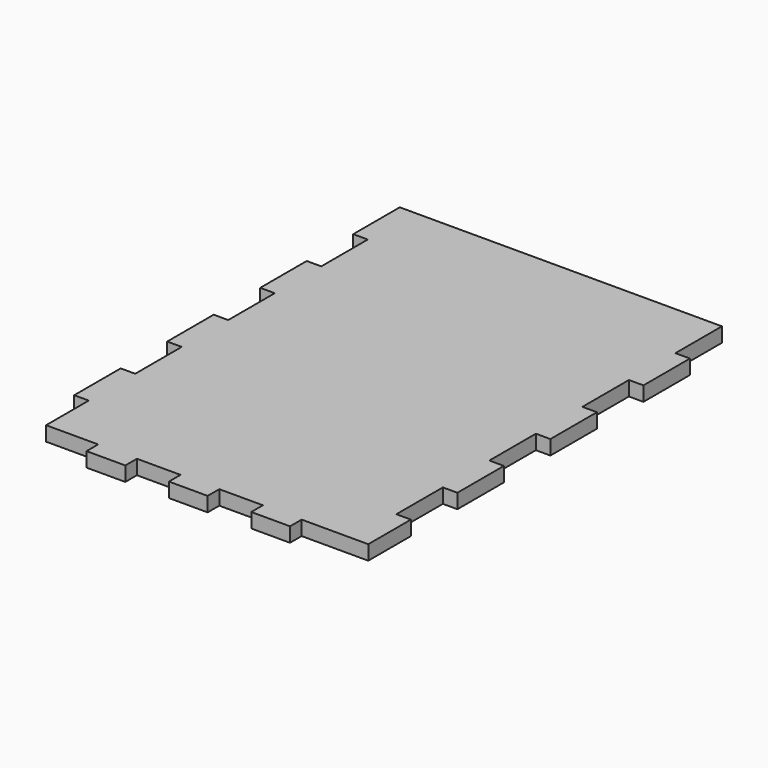
from build123d import *

# Parameters (mm, degrees)
PAD_DEPTH = 3


with BuildPart() as part:
    # Sketch → Pad (new body)
    with BuildSketch(Plane.XY):
        Polygon((34.75, -29), (21, -29), (21, -32), (13, -32), (13, -29), (4, -29), (4, -32), (-4, -32), (-4, -29), (-13, -29), (-13, -32), (-21, -32), (-21, -29), (-31.75, -29), (-31.75, -18), (-34.75, -18), (-34.75, -6), (-31.75, -6), (-31.75, 6), (-34.75, 6), (-34.75, 18), (-31.75, 18), (-31.75, 30), (-34.75, 30), (-34.75, 42), (-31.75, 42), (-31.75, 54), (-34.75, 54), (-34.75, 66), (31.75, 66), (31.75, 54), (34.75, 54), (34.75, 42), (31.75, 42), (31.75, 30), (34.75, 30), (34.75, 18), (31.75, 18), (31.75, 6), (34.75, 6), (34.75, -6), (31.75, -6), (31.75, -18), (34.75, -18), align=None)
    extrude(amount=PAD_DEPTH)


solid = part.part
